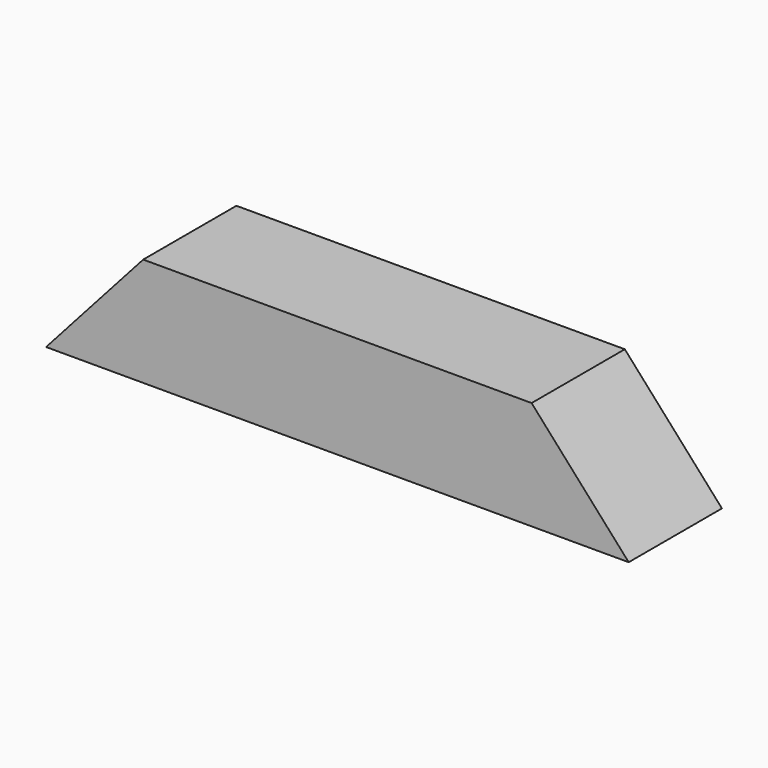
from build123d import *

# Parameters (mm, degrees)
F1_DEPTH = 140


with BuildPart() as f1:
    # F0 (on Front) → F1 (new body)
    with BuildSketch(Plane.XZ):
        Polygon((-233.333333, 130.437299), (-350, 0), (-116.666667, 0), align=None)
        Polygon((0, 130.437299), (-116.666667, 0), (116.666667, 0), align=None)
        Polygon((-233.333333, 130.437299), (-116.666667, 0), (0, 130.437299), align=None)
        Polygon((233.333333, 130.437299), (116.666667, 0), (350, 0), align=None)
        Polygon((0, 130.437299), (116.666667, 0), (233.333333, 130.437299), align=None)
    extrude(amount=F1_DEPTH)


solid = f1.part
